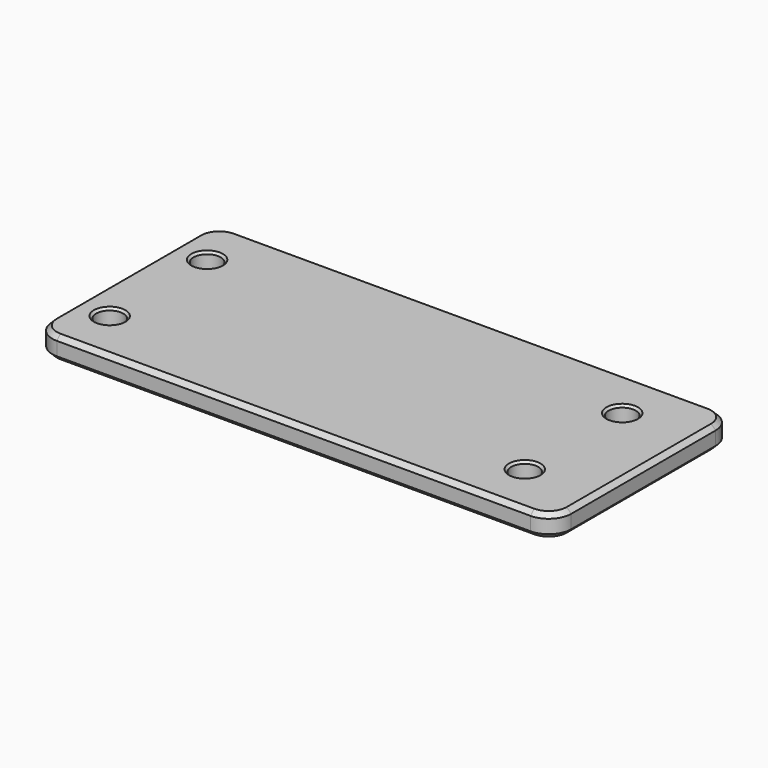
from build123d import *

# Parameters (mm, degrees)
F0_R     = 6
F1_DEPTH = 10
F2_SIZE  = 2
F3_SIZE  = 2
F4_SIZE  = 1
F5_SIZE  = 1


with BuildPart() as f1:
    # F0 (on Top) → F1 (new body)
    with BuildSketch(Plane.XY):
        with BuildLine():
            ThreePointArc((115, 40), (112.071068, 47.071068), (105, 50))
            Line((105, 50), (-105, 50))
            ThreePointArc((-105, 50), (-112.071068, 47.071068), (-115, 40))
            Line((-115, 40), (-115, -40))
            ThreePointArc((-115, -40), (-112.071068, -47.071068), (-105, -50))
            Line((-105, -50), (105, -50))
            ThreePointArc((105, -50), (112.071068, -47.071068), (115, -40))
            Line((115, -40), (115, 40))
        make_face()
        with Locations((-100, -27)):
            Circle(F0_R, mode=Mode.SUBTRACT)
        with Locations((84, -27)):
            Circle(F0_R, mode=Mode.SUBTRACT)
        with Locations((-100, 27)):
            Circle(F0_R, mode=Mode.SUBTRACT)
        with Locations((84, 27)):
            Circle(F0_R, mode=Mode.SUBTRACT)
    extrude(amount=F1_DEPTH)

    # F2
    f2_edges = [f1.edges().sort_by_distance(p)[0] for p in [
        (0, -50, 10),
    ]]
    chamfer(f2_edges, length=F2_SIZE)

    # F3
    f3_edges = [f1.edges().sort_by_distance(p)[0] for p in [
        (0, -50, 0),
    ]]
    chamfer(f3_edges, length=F3_SIZE)

    # F4
    f4_edges = [f1.edges().sort_by_distance(p)[0] for p in [
        (-106, -27, 10),
        (-106, 27, 10),
        (78, 27, 10),
        (78, -27, 10),
    ]]
    chamfer(f4_edges, length=F4_SIZE)

    # F5
    f5_edges = [f1.edges().sort_by_distance(p)[0] for p in [
        (78, -27, 0),
        (78, 27, 0),
        (-106, -27, 0),
        (-106, 27, 0),
    ]]
    chamfer(f5_edges, length=F5_SIZE)


solid = f1.part
